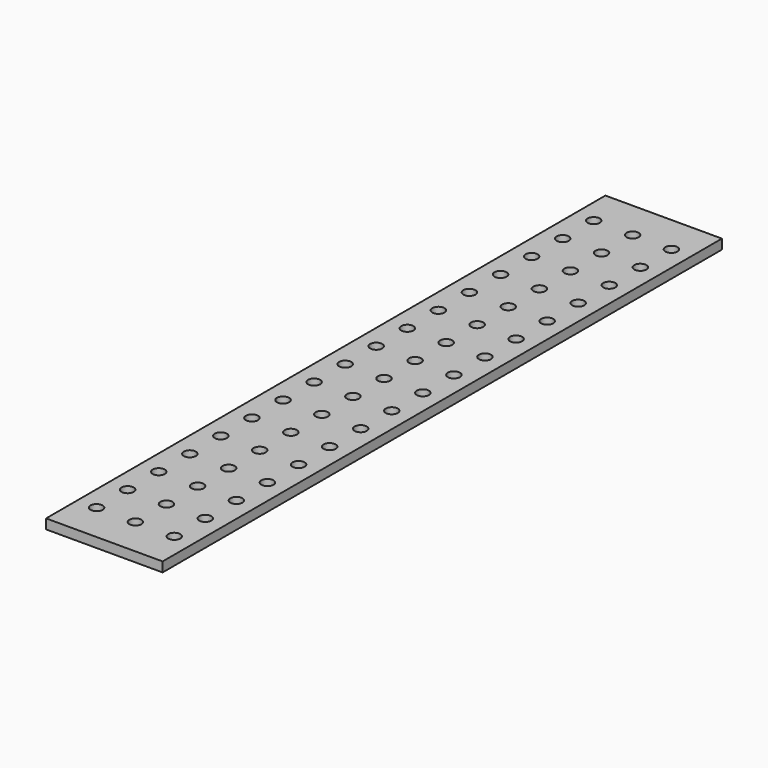
from build123d import *

# Parameters (mm, degrees)
F0_W     = 152.4
F0_H     = 914.4
F0_R     = 7.9375
F1_DEPTH = 12.7


with BuildPart() as f1:
    # F0 (on Top) → F1 (new body)
    with BuildSketch(Plane.XY):
        with Locations((50.8, 457.2)):
            Rectangle(F0_W, F0_H)
        with Locations((0, 50.8)):
            Circle(F0_R, mode=Mode.SUBTRACT)
        with Locations((0, 101.6)):
            Circle(F0_R, mode=Mode.SUBTRACT)
        with Locations((0, 152.4)):
            Circle(F0_R, mode=Mode.SUBTRACT)
        with Locations((0, 203.2)):
            Circle(F0_R, mode=Mode.SUBTRACT)
        with Locations((50.8, 50.8)):
            Circle(F0_R, mode=Mode.SUBTRACT)
        with Locations((50.8, 101.6)):
            Circle(F0_R, mode=Mode.SUBTRACT)
        with Locations((50.8, 152.4)):
            Circle(F0_R, mode=Mode.SUBTRACT)
        with Locations((50.8, 203.2)):
            Circle(F0_R, mode=Mode.SUBTRACT)
        with Locations((0, 254)):
            Circle(F0_R, mode=Mode.SUBTRACT)
        with Locations((0, 304.8)):
            Circle(F0_R, mode=Mode.SUBTRACT)
        with Locations((0, 355.6)):
            Circle(F0_R, mode=Mode.SUBTRACT)
        with Locations((0, 406.4)):
            Circle(F0_R, mode=Mode.SUBTRACT)
        with Locations((50.8, 254)):
            Circle(F0_R, mode=Mode.SUBTRACT)
        with Locations((50.8, 304.8)):
            Circle(F0_R, mode=Mode.SUBTRACT)
        with Locations((50.8, 355.6)):
            Circle(F0_R, mode=Mode.SUBTRACT)
        with Locations((50.8, 406.4)):
            Circle(F0_R, mode=Mode.SUBTRACT)
        with Locations((101.6, 50.8)):
            Circle(F0_R, mode=Mode.SUBTRACT)
        with Locations((101.6, 101.6)):
            Circle(F0_R, mode=Mode.SUBTRACT)
        with Locations((101.6, 152.4)):
            Circle(F0_R, mode=Mode.SUBTRACT)
        with Locations((101.6, 203.2)):
            Circle(F0_R, mode=Mode.SUBTRACT)
        with Locations((101.6, 254)):
            Circle(F0_R, mode=Mode.SUBTRACT)
        with Locations((101.6, 304.8)):
            Circle(F0_R, mode=Mode.SUBTRACT)
        with Locations((101.6, 355.6)):
            Circle(F0_R, mode=Mode.SUBTRACT)
        with Locations((101.6, 406.4)):
            Circle(F0_R, mode=Mode.SUBTRACT)
        with Locations((0, 457.2)):
            Circle(F0_R, mode=Mode.SUBTRACT)
        with Locations((0, 508)):
            Circle(F0_R, mode=Mode.SUBTRACT)
        with Locations((0, 558.8)):
            Circle(F0_R, mode=Mode.SUBTRACT)
        with Locations((0, 609.6)):
            Circle(F0_R, mode=Mode.SUBTRACT)
        with Locations((0, 660.4)):
            Circle(F0_R, mode=Mode.SUBTRACT)
        with Locations((50.8, 457.2)):
            Circle(F0_R, mode=Mode.SUBTRACT)
        with Locations((50.8, 508)):
            Circle(F0_R, mode=Mode.SUBTRACT)
        with Locations((50.8, 558.8)):
            Circle(F0_R, mode=Mode.SUBTRACT)
        with Locations((50.8, 609.6)):
            Circle(F0_R, mode=Mode.SUBTRACT)
        with Locations((50.8, 660.4)):
            Circle(F0_R, mode=Mode.SUBTRACT)
        with Locations((0, 711.2)):
            Circle(F0_R, mode=Mode.SUBTRACT)
        with Locations((0, 762)):
            Circle(F0_R, mode=Mode.SUBTRACT)
        with Locations((0, 812.8)):
            Circle(F0_R, mode=Mode.SUBTRACT)
        with Locations((0, 863.6)):
            Circle(F0_R, mode=Mode.SUBTRACT)
        with Locations((50.8, 711.2)):
            Circle(F0_R, mode=Mode.SUBTRACT)
        with Locations((50.8, 762)):
            Circle(F0_R, mode=Mode.SUBTRACT)
        with Locations((50.8, 812.8)):
            Circle(F0_R, mode=Mode.SUBTRACT)
        with Locations((50.8, 863.6)):
            Circle(F0_R, mode=Mode.SUBTRACT)
        with Locations((101.6, 457.2)):
            Circle(F0_R, mode=Mode.SUBTRACT)
        with Locations((101.6, 508)):
            Circle(F0_R, mode=Mode.SUBTRACT)
        with Locations((101.6, 558.8)):
            Circle(F0_R, mode=Mode.SUBTRACT)
        with Locations((101.6, 609.6)):
            Circle(F0_R, mode=Mode.SUBTRACT)
        with Locations((101.6, 660.4)):
            Circle(F0_R, mode=Mode.SUBTRACT)
        with Locations((101.6, 711.2)):
            Circle(F0_R, mode=Mode.SUBTRACT)
        with Locations((101.6, 762)):
            Circle(F0_R, mode=Mode.SUBTRACT)
        with Locations((101.6, 812.8)):
            Circle(F0_R, mode=Mode.SUBTRACT)
        with Locations((101.6, 863.6)):
            Circle(F0_R, mode=Mode.SUBTRACT)
    extrude(amount=F1_DEPTH)


solid = f1.part
